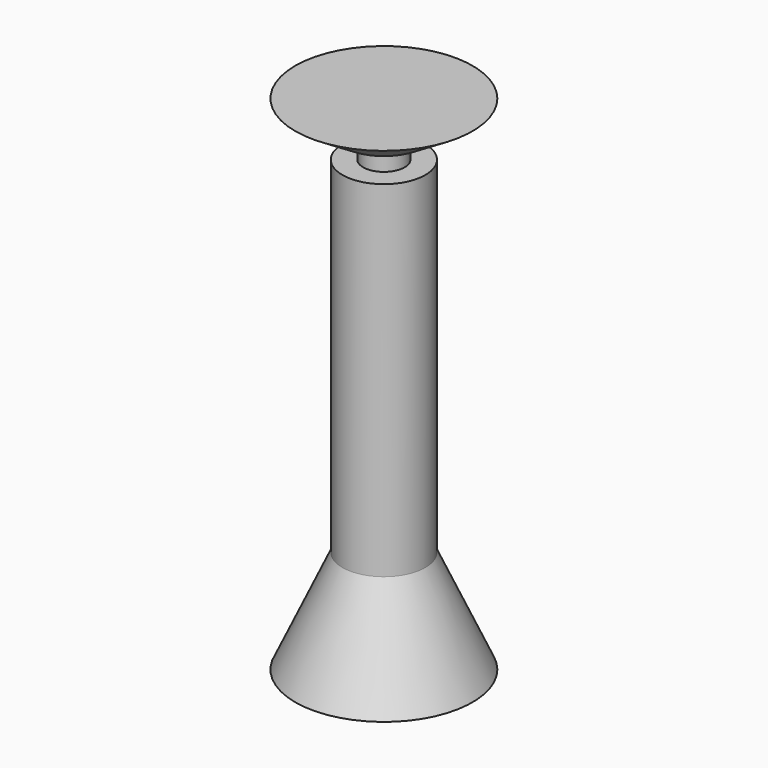
from build123d import *

# Parameters (mm, degrees)
F0_W = 2.8242231347
F0_H = 3.3591985703


with BuildPart() as f1:
    # F0 (on Front) → F1 (revolve)
    with BuildSketch(Plane.XZ):
        Polygon((0, 34.6608199179), (-5.6484462693, 34.6608199179), (-5.6484462693, 30.6908581406), (-2.8242231347, 30.6908581406), (0, 30.6908581406), align=None)
        Polygon((-5.6484462693, 30.6908581406), (-5.6484462693, 34.6608199179), (-12.0587591082, 34.6608199179), align=None)
        Polygon((0, -19.6971185505), (0, 27.3316595703), (-2.8242231347, 27.3316595703), (-5.6484462693, 27.3316595703), (-5.6484462693, -19.6971185505), align=None)
        with Locations((-1.4121115673, 29.0112588555)):
            Rectangle(F0_W, F0_H)
        Polygon((0, -33.7446779013), (0, -19.6971185505), (-5.6484462693, -19.6971185505), (-12.0587591082, -33.7446779013), align=None)
    revolve(axis=Axis((0, 0, 3.8172705099), (0, 0, -1)))


solid = f1.part
